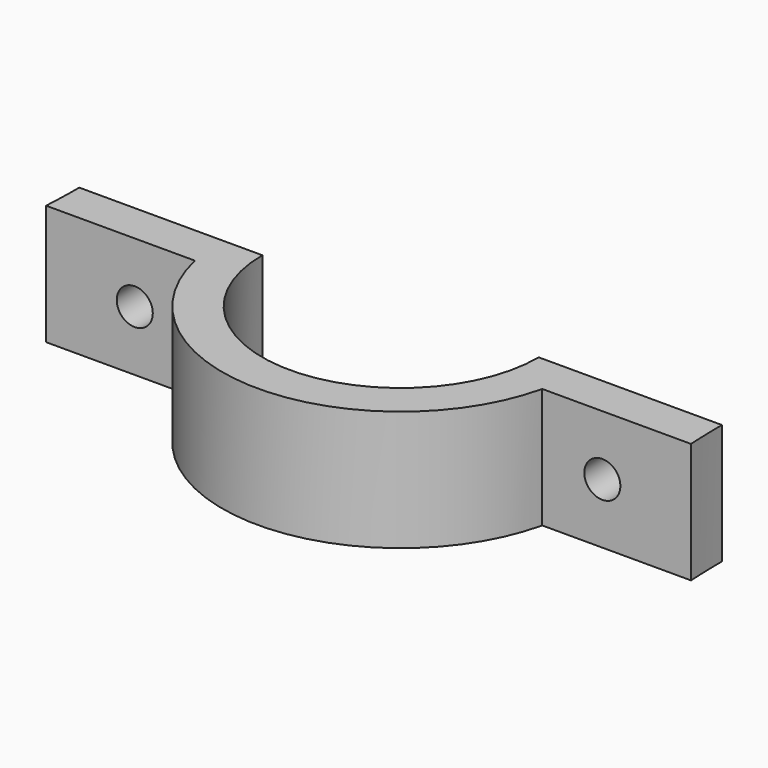
from build123d import *

# Parameters (mm, degrees)
F1_DEPTH = 7.5
F2_R     = 2.25
F3_DEPTH = 25


with BuildPart() as f1:
    # F0 (on Top) → F1 (new body, symmetric)
    with BuildSketch(Plane.XY):
        with BuildLine():
            Line((40.10944, 0), (17.25, 0))
            ThreePointArc((17.25, 0), (0, -17.25), (-17.25, 0))
            Line((-17.25, 0), (-40.10944, 0))
            ThreePointArc((-40.10944, 0), (-40.144587, -2.500988), (-40.25, -5))
            Line((-40.25, -5), (-21.680925, -5))
            ThreePointArc((-21.680925, -5), (0, -22.25), (21.680925, -5))
            Line((21.680925, -5), (40.25, -5))
            ThreePointArc((40.25, -5), (40.144587, -2.500988), (40.10944, 0))
        make_face()
    extrude(amount=F1_DEPTH, both=True)

    # F2 (on face) → F3 (cut)
    with BuildSketch(Plane.XZ.offset(5)):
        with Locations((-29.180925, 0)):
            Circle(F2_R)
        with Locations((29.180925, 0)):
            Circle(F2_R)
    extrude(amount=-F3_DEPTH, mode=Mode.SUBTRACT)


solid = f1.part
